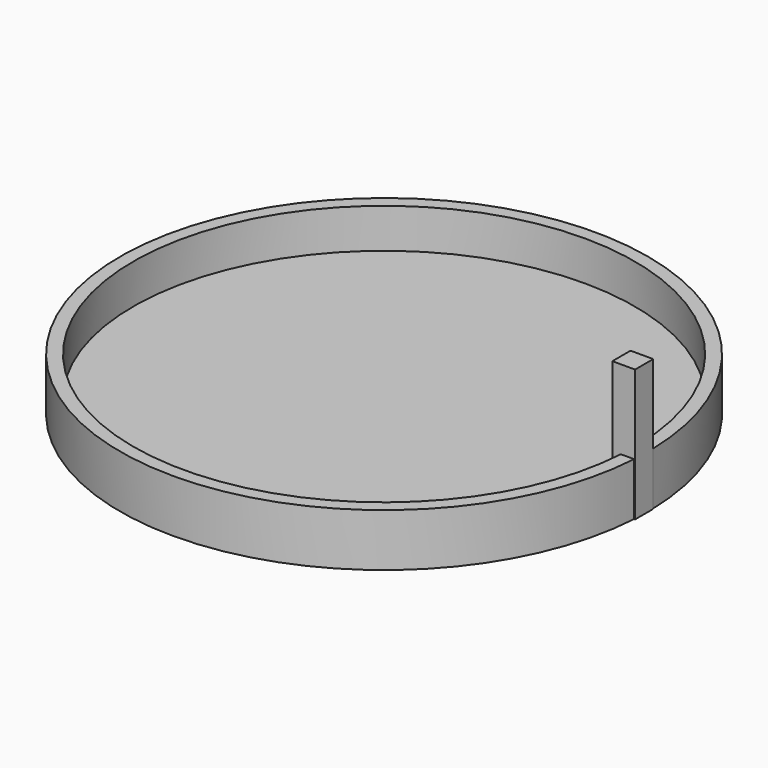
from build123d import *

# Parameters (mm, degrees)
F0_R     = 50
F1_DEPTH = 10
F2_T     = -2.5
F3_W     = 4.3
F3_H     = 4.3
F4_DEPTH = 25


with BuildPart() as f1:
    # F0 (on Top) → F1 (new body)
    with BuildSketch(Plane.XY):
        with Locations((-0.804745, 0.344891)):
            Circle(F0_R)
    extrude(amount=F1_DEPTH)

    # F2
    f2_openings = [f1.faces().sort_by_distance(p)[0] for p in [
        (-0.804745, 0.344891, 10),
    ]]
    offset(amount=F2_T, openings=f2_openings)

    # F3 (on Top) → F4 (join)
    with BuildSketch(Plane.XY):
        with Locations((47.132396, -0.684507)):
            Rectangle(F3_W, F3_H)
    extrude(amount=F4_DEPTH)


solid = f1.part
